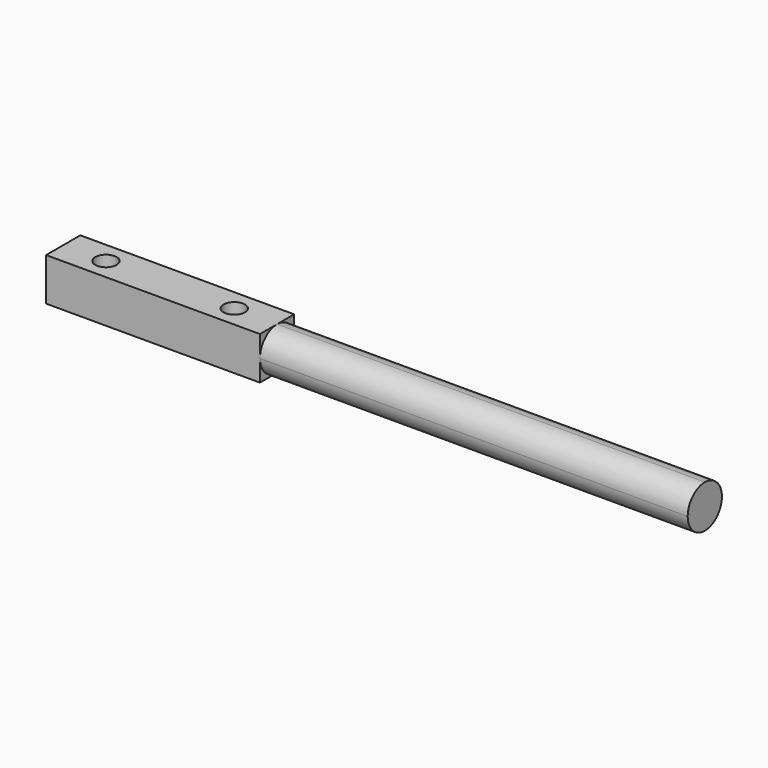
from build123d import *

# Parameters (mm, degrees)
F0_W     = 63.5
F0_H     = 12.7
F0_R     = 3.175
F1_DEPTH = 12.7
F3_DEPTH = 127


with BuildPart() as f1:
    # F0 (on Top) → F1 (new body)
    with BuildSketch(Plane.XY):
        with Locations((4.618189, 0)):
            Rectangle(F0_W, F0_H)
        with Locations((-14.431811, 0)):
            Circle(F0_R, mode=Mode.SUBTRACT)
        with Locations((23.668189, 0)):
            Circle(F0_R, mode=Mode.SUBTRACT)
    extrude(amount=F1_DEPTH)

    # F2 (on face) → F3 (join)
    with BuildSketch(Plane.YZ.offset(36.368189)):
        with BuildLine():
            ThreePointArc((0, 0), (4.490128, 1.859872), (6.35, 6.35))
            ThreePointArc((6.35, 6.35), (4.490128, 10.840128), (0, 12.7))
            ThreePointArc((0, 12.7), (-4.490128, 10.840128), (-6.35, 6.35))
            ThreePointArc((-6.35, 6.35), (-4.490128, 1.859872), (0, 0))
        make_face()
    extrude(amount=F3_DEPTH)


solid = f1.part
